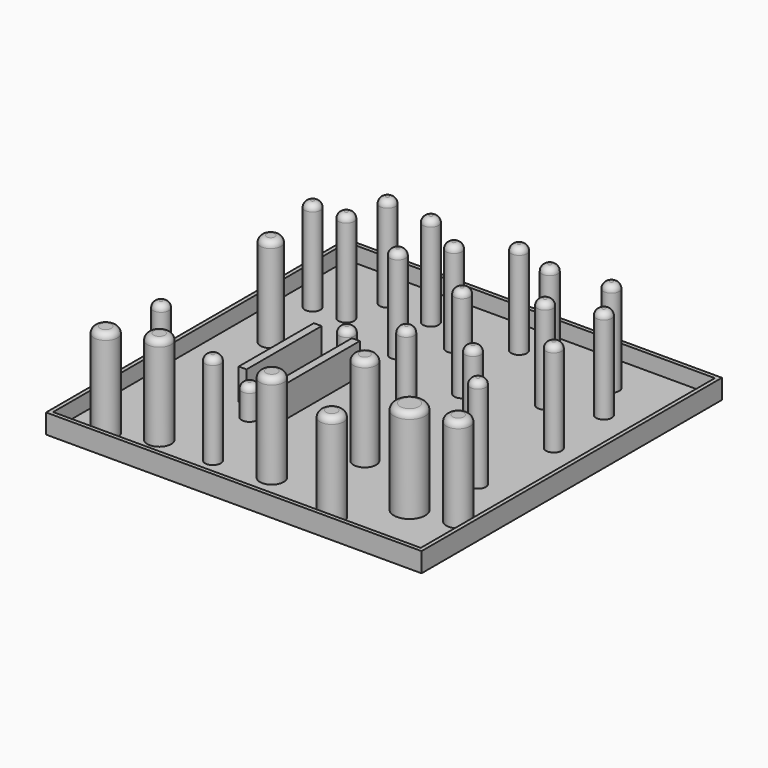
from build123d import *

# Parameters (mm, degrees)
F0_W     = 152.4
F0_H     = 152.4
F1_DEPTH = 1.5875
F2_W     = 152.4
F2_H     = 152.4
F2_W_2   = 149.225
F2_H_2   = 149.225
F3_DEPTH = 6.35
F2_R     = 3.175
F2_W_3   = 3.175
F2_H_3   = 38.1
F4_DEPTH = 12.7
F2_R_2   = 4.6007255352
F2_R_3   = 4.2136908579
F2_R_4   = 4.826
F2_R_5   = 6.35
F5_DEPTH = 38.1
F6_R     = 2.54


with BuildPart() as f1:
    # F0 (on Top) → F1 (new body)
    with BuildSketch(Plane.XY):
        Rectangle(F0_W, F0_H)
    extrude(amount=F1_DEPTH)

    # F2 (on face) → F3 (join)
    with BuildSketch(Plane.XY.offset(1.5875)):
        Rectangle(F2_W, F2_H)
        Rectangle(F2_W_2, F2_H_2, mode=Mode.SUBTRACT)
    extrude(amount=F3_DEPTH)

    # F2 (on face) → F4 (join)
    with BuildSketch(Plane.XY.offset(1.5875)):
        with Locations((-31.3955209687, -28.9895810837)):
            Circle(F2_R)
        with Locations((-31.2536275014, 20.2609933913)):
            Circle(F2_R)
        with Locations((-23.1315003693, -4.4029487789)):
            Rectangle(F2_W_3, F2_H_3)
        with Locations((-39.0065003693, -3.9127303779)):
            Rectangle(F2_W_3, F2_H_3)
    extrude(amount=F4_DEPTH)

    # F2 (on face) → F5 (join)
    with BuildSketch(Plane.XY.offset(1.5875)):
        with Locations((15.796713531, -29.4878706336)):
            Circle(F2_R_2)
        with Locations((53.8040362298, -19.5801407099)):
            Circle(F2_R)
        with Locations((36.5607589483, 36.040559411)):
            Circle(F2_R)
        with Locations((55.3510598838, 42.3704609275)):
            Circle(F2_R)
        with Locations((45.676857233, 58.2899861038)):
            Circle(F2_R)
        with Locations((22.899672389, 55.4734617472)):
            Circle(F2_R)
        with Locations((6.6127479076, 60.2493137121)):
            Circle(F2_R)
        with Locations((-10.2864652872, 48.3709014952)):
            Circle(F2_R)
        with Locations((-27.3081213236, 57.9226203263)):
            Circle(F2_R)
        with Locations((-46.1666584015, 59.5145747066)):
            Circle(F2_R)
        with Locations((-49.9628633261, 43.350122869)):
            Circle(F2_R)
        with Locations((-63.0658715963, 42.6153764129)):
            Circle(F2_R)
        with Locations((-58.4124661982, 15.5521566048)):
            Circle(F2_R_3)
        with Locations((-57.5552657247, -41.1459133029)):
            Circle(F2_R)
        with Locations((-44.0848842263, -58.902323246)):
            Circle(F2_R_4)
        with Locations((0, -56.9430068135)):
            Circle(F2_R_4)
        with Locations((31.7166298628, -66.1273524165)):
            Circle(F2_R_4)
        with Locations((47.8810817003, -46.9014532864)):
            Circle(F2_R_5)
        with Locations((64.9027526379, -43.4726253152)):
            Circle(F2_R_4)
        with Locations((11.1436918378, 25.7161557674)):
            Circle(F2_R)
        with Locations((-21.4301422238, 33.7983854115)):
            Circle(F2_R)
        with Locations((38.5742858052, -3.0614763964)):
            Circle(F2_R)
        with Locations((13.837762177, -6.0004740953)):
            Circle(F2_R)
        with Locations((57.0654496551, 14.8173961788)):
            Circle(F2_R)
        with Locations((-60.2493435144, -65.8824294806)):
            Circle(F2_R_4)
        with Locations((-21.9199806452, -59.3921579421)):
            Circle(F2_R)
    extrude(amount=F5_DEPTH)

    # F6
    f6_edges = [f1.edges().sort_by_distance(p)[0] for p in [
        (42.501857, 58.289986, 39.6875),
        (33.385759, 36.040559, 39.6875),
        (19.724672, 55.473462, 39.6875),
        (3.437748, 60.249314, 39.6875),
        (52.17606, 42.370461, 39.6875),
        (53.89045, 14.817396, 39.6875),
        (7.968692, 25.716156, 39.6875),
        (-13.461465, 48.370901, 39.6875),
        (-30.483121, 57.92262, 39.6875),
        (-49.341658, 59.514575, 39.6875),
        (-53.137863, 43.350123, 39.6875),
        (50.629036, -19.580141, 39.6875),
        (60.076753, -43.472625, 39.6875),
        (41.531082, -46.901453, 39.6875),
        (11.195988, -29.487871, 39.6875),
        (10.662762, -6.000474, 39.6875),
        (35.399286, -3.061476, 39.6875),
        (-24.605142, 33.798385, 39.6875),
        (-62.626157, 15.552157, 39.6875),
        (-66.240872, 42.615376, 39.6875),
        (-34.428628, 20.260993, 14.2875),
        (-34.570521, -28.989581, 14.2875),
        (-4.826, -56.943007, 39.6875),
        (26.89063, -66.127352, 39.6875),
        (-25.094981, -59.392158, 39.6875),
        (-48.910884, -58.902323, 39.6875),
        (-60.730266, -41.145913, 39.6875),
        (-65.075344, -65.882429, 39.6875),
    ]]
    fillet(f6_edges, radius=F6_R)


solid = f1.part
